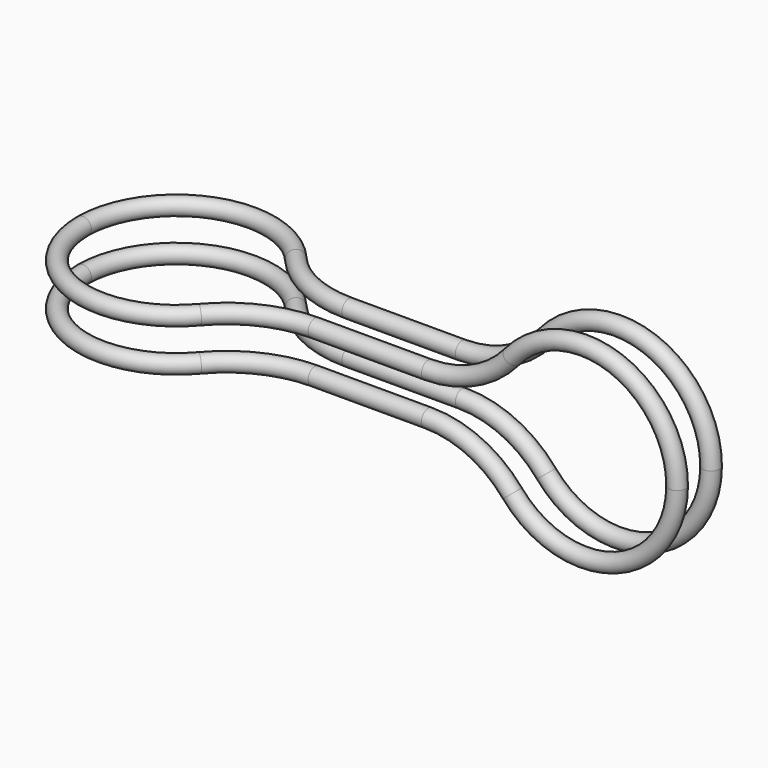
from build123d import *

# Parameters (mm, degrees)
F5_R = 2


with BuildPart() as f6:
    # F6: sweep along a path in F3, F4
    with BuildLine(Plane.XZ.offset(5)) as f6_path:
        ThreePointArc((72, 0), (57.5655945656, 20.6582133513), (33.2034746483, 14.2083333333))
        ThreePointArc((33.2034746483, 14.2083333333), (24.2941659463, 7.4141638548), (13.3530355964, 5))
        Line((13.3530355964, 5), (0, 5))
    with BuildLine(Plane.XY.offset(5)) as f6_path_2:
        Line((0, -5), (-13.3530355964, -5))
        ThreePointArc((-13.3530355964, -5), (-24.2941659463, -7.4141638548), (-33.2034746483, -14.2083333333))
        ThreePointArc((-33.2034746483, -14.2083333333), (-57.5655945656, -20.6582133513), (-72, 0))
    # F5 (on Top) → F6 (sweep)
    with BuildSketch(Plane.XY):
        with Locations((72, -5)):
            Circle(F5_R)
    sweep(path=f6_path.line + f6_path_2.line)

    # F7: F6 across plane


with BuildPart() as f6_1:
    add(f6.part)
    add(f6.part.mirror(Plane.XZ))

    # F8: F6 across plane


with BuildPart() as f6_2:
    add(f6_1.part)
    add(f6_1.part.mirror(Plane.XY))


solid = f6_2.part
